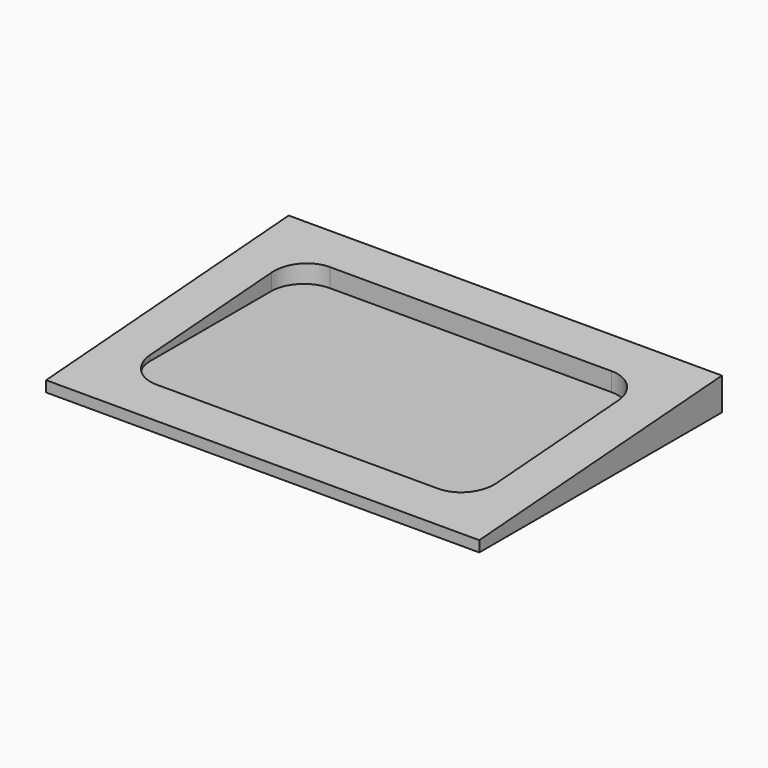
from build123d import *

# Parameters (mm, degrees)
F0_W     = 127
F0_H     = 88.9
F1_DEPTH = 9.525
F3_W     = 101.6
F3_H     = 63.5
F4_DEPTH = 6.35
F5_R     = 9.525
F6_DEPTH = 127.001


with BuildPart() as f1:
    # F0 (on Top) → F1 (new body)
    with BuildSketch(Plane.XY):
        with Locations((-63.5, -44.45)):
            Rectangle(F0_W, F0_H)
    extrude(amount=-F1_DEPTH)

    # F3 (on face) → F4 (cut)
    with BuildSketch(Plane.XY):
        with Locations((-63.5, -44.45)):
            Rectangle(F3_W, F3_H)
    extrude(amount=-F4_DEPTH, mode=Mode.SUBTRACT)

    # F5
    f5_edges = [f1.edges().sort_by_distance(p)[0] for p in [
        (-12.7, -12.7, -3.175),
        (-114.3, -12.7, -3.175),
        (-114.3, -76.2, -3.175),
        (-12.7, -76.2, -3.175),
    ]]
    fillet(f5_edges, radius=F5_R)

    # F2 (on face) → F6 (cut, through all)
    with BuildSketch(Plane(origin=(-127, 0, 0), x_dir=(0, -1, 0), z_dir=(-1, 0, 0))):
        Polygon((88.9, 0), (0, 0), (88.9, -6.35), align=None)
    extrude(amount=-F6_DEPTH, mode=Mode.SUBTRACT)


solid = f1.part
